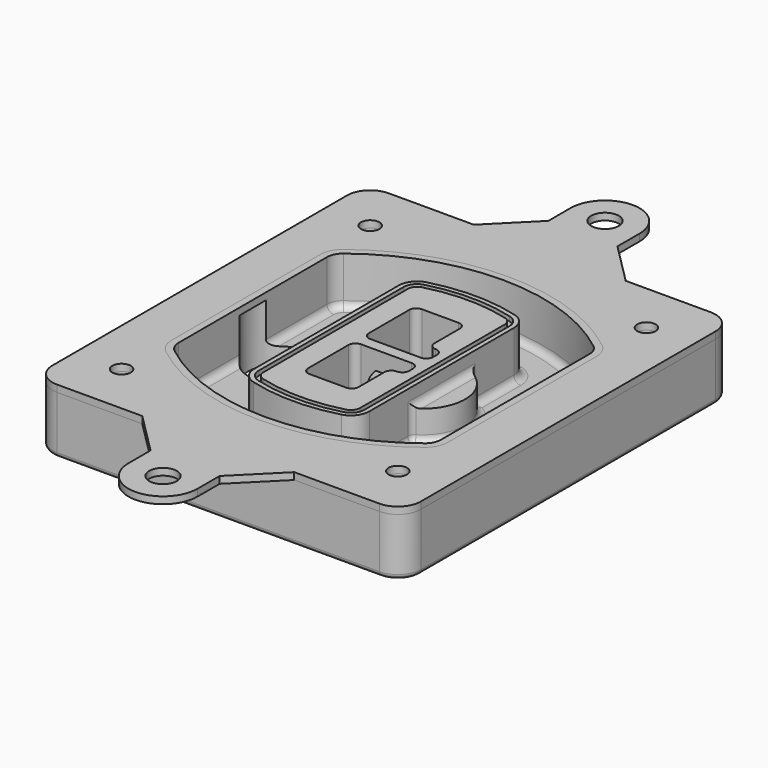
from build123d import *

# Parameters (mm, degrees)
F0_R      = 4
F1_DEPTH  = 25
F2_DEPTH  = 3
F3_DEPTH  = 18
F5_DEPTH  = 21
F6_DEPTH  = 2
F8_DEPTH  = 20
F9_DEPTH  = 16
F10_DEPTH = 25
F7_R      = 6
F7_R_2    = 4
F11_DEPTH = 6
F13_DEPTH = 9
F14_R     = 3
F15_R     = 2
F16_R     = 6
F16_R_2   = 4
F17_DEPTH = 3


with BuildPart() as f1:
    # F0 (on Top) → F1 (new body)
    with BuildSketch(Plane.XY):
        with BuildLine():
            ThreePointArc((-80, -80), (-77.0710678119, -87.0710678119), (-70, -90))
            Line((-70, -90), (70, -90))
            ThreePointArc((70, -90), (77.0710678119, -87.0710678119), (80, -80))
            Line((80, -80), (80, 80))
            ThreePointArc((80, 80), (77.0710678119, 87.0710678119), (70, 90))
            Line((70, 90), (-70, 90))
            ThreePointArc((-70, 90), (-77.0710678119, 87.0710678119), (-80, 80))
            Line((-80, 80), (-80, -80))
        make_face()
        with Locations((-60, -67.5)):
            Circle(F0_R, mode=Mode.SUBTRACT)
        with Locations((60, -67.5)):
            Circle(F0_R, mode=Mode.SUBTRACT)
        with Locations((-60, 67.5)):
            Circle(F0_R, mode=Mode.SUBTRACT)
        with BuildLine():
            ThreePointArc((-64, 40.2934422872), (-62.5820384798, 46.4328484224), (-58.6153846154, 51.3286200352))
            ThreePointArc((-58.6153846154, 51.3286200352), (0, 71.5), (58.6153846154, 51.3286200352))
            ThreePointArc((58.6153846154, 51.3286200352), (62.5820384798, 46.4328484224), (64, 40.2934422872))
            Line((64, 40.2934422872), (64, -40.2934422872))
            ThreePointArc((64, -40.2934422872), (62.5820384798, -46.4328484224), (58.6153846154, -51.3286200352))
            ThreePointArc((58.6153846154, -51.3286200352), (0, -71.5), (-58.6153846154, -51.3286200352))
            ThreePointArc((-58.6153846154, -51.3286200352), (-62.5820384798, -46.4328484224), (-64, -40.2934422872))
            Line((-64, -40.2934422872), (-64, 40.2934422872))
        make_face(mode=Mode.SUBTRACT)
        with Locations((60, 67.5)):
            Circle(F0_R, mode=Mode.SUBTRACT)
        with BuildLine():
            ThreePointArc((58.6153846154, 51.3286200352), (0, 71.5), (-58.6153846154, 51.3286200352))
            ThreePointArc((-58.6153846154, 51.3286200352), (-62.5820384798, 46.4328484224), (-64, 40.2934422872))
            Line((-64, 40.2934422872), (-64, -40.2934422872))
            ThreePointArc((-64, -40.2934422872), (-62.5820384798, -46.4328484224), (-58.6153846154, -51.3286200352))
            ThreePointArc((-58.6153846154, -51.3286200352), (0, -71.5), (58.6153846154, -51.3286200352))
            ThreePointArc((58.6153846154, -51.3286200352), (62.5820384798, -46.4328484224), (64, -40.2934422872))
            Line((64, -40.2934422872), (64, 40.2934422872))
            ThreePointArc((64, 40.2934422872), (62.5820384798, 46.4328484224), (58.6153846154, 51.3286200352))
        make_face()
        with BuildLine():
            Line((-60, -40.2934422872), (-60, 40.2934422872))
            ThreePointArc((-60, 40.2934422872), (-58.9871703427, 44.6787323838), (-56.1538461538, 48.1757121072))
            ThreePointArc((-56.1538461538, 48.1757121072), (0, 67.5), (56.1538461538, 48.1757121072))
            ThreePointArc((56.1538461538, 48.1757121072), (58.9871703427, 44.6787323838), (60, 40.2934422872))
            Line((60, 40.2934422872), (60, -40.2934422872))
            ThreePointArc((60, -40.2934422872), (58.9871703427, -44.6787323838), (56.1538461538, -48.1757121072))
            ThreePointArc((56.1538461538, -48.1757121072), (0, -67.5), (-56.1538461538, -48.1757121072))
            ThreePointArc((-56.1538461538, -48.1757121072), (-58.9871703427, -44.6787323838), (-60, -40.2934422872))
        make_face(mode=Mode.SUBTRACT)
        with BuildLine():
            ThreePointArc((-56.1538461538, 48.1757121072), (-58.9871703427, 44.6787323838), (-60, 40.2934422872))
            Line((-60, 40.2934422872), (-60, -40.2934422872))
            ThreePointArc((-60, -40.2934422872), (-58.9871703427, -44.6787323838), (-56.1538461538, -48.1757121072))
            ThreePointArc((-56.1538461538, -48.1757121072), (0, -67.5), (56.1538461538, -48.1757121072))
            ThreePointArc((56.1538461538, -48.1757121072), (58.9871703427, -44.6787323838), (60, -40.2934422872))
            Line((60, -40.2934422872), (60, 40.2934422872))
            ThreePointArc((60, 40.2934422872), (58.9871703427, 44.6787323838), (56.1538461538, 48.1757121072))
            ThreePointArc((56.1538461538, 48.1757121072), (0, 67.5), (-56.1538461538, 48.1757121072))
        make_face()
        with BuildLine():
            ThreePointArc((54.3076923077, 45.8110311612), (56.2910192399, 43.3631453548), (57, 40.2934422872))
            Line((57, 40.2934422872), (57, -40.2934422872))
            ThreePointArc((57, -40.2934422872), (56.2910192399, -43.3631453548), (54.3076923077, -45.8110311612))
            ThreePointArc((54.3076923077, -45.8110311612), (0, -64.5), (-54.3076923077, -45.8110311612))
            ThreePointArc((-54.3076923077, -45.8110311612), (-56.2910192399, -43.3631453548), (-57, -40.2934422872))
            Line((-57, -40.2934422872), (-57, 40.2934422872))
            ThreePointArc((-57, 40.2934422872), (-56.2910192399, 43.3631453548), (-54.3076923077, 45.8110311612))
            ThreePointArc((-54.3076923077, 45.8110311612), (0, 64.5), (54.3076923077, 45.8110311612))
        make_face(mode=Mode.SUBTRACT)
        with BuildLine():
            Line((57, -40.2934422872), (57, 40.2934422872))
            ThreePointArc((57, 40.2934422872), (56.2910192399, 43.3631453548), (54.3076923077, 45.8110311612))
            ThreePointArc((54.3076923077, 45.8110311612), (0, 64.5), (-54.3076923077, 45.8110311612))
            ThreePointArc((-54.3076923077, 45.8110311612), (-56.2910192399, 43.3631453548), (-57, 40.2934422872))
            Line((-57, 40.2934422872), (-57, -40.2934422872))
            ThreePointArc((-57, -40.2934422872), (-56.2910192399, -43.3631453548), (-54.3076923077, -45.8110311612))
            ThreePointArc((-54.3076923077, -45.8110311612), (0, -64.5), (54.3076923077, -45.8110311612))
            ThreePointArc((54.3076923077, -45.8110311612), (56.2910192399, -43.3631453548), (57, -40.2934422872))
        make_face()
    extrude(amount=-F1_DEPTH)

    # F0 (on Top) → F2 (join)
    with BuildSketch(Plane.XY):
        with BuildLine():
            ThreePointArc((-56.1538461538, 48.1757121072), (-58.9871703427, 44.6787323838), (-60, 40.2934422872))
            Line((-60, 40.2934422872), (-60, -40.2934422872))
            ThreePointArc((-60, -40.2934422872), (-58.9871703427, -44.6787323838), (-56.1538461538, -48.1757121072))
            ThreePointArc((-56.1538461538, -48.1757121072), (0, -67.5), (56.1538461538, -48.1757121072))
            ThreePointArc((56.1538461538, -48.1757121072), (58.9871703427, -44.6787323838), (60, -40.2934422872))
            Line((60, -40.2934422872), (60, 40.2934422872))
            ThreePointArc((60, 40.2934422872), (58.9871703427, 44.6787323838), (56.1538461538, 48.1757121072))
            ThreePointArc((56.1538461538, 48.1757121072), (0, 67.5), (-56.1538461538, 48.1757121072))
        make_face()
        with BuildLine():
            ThreePointArc((54.3076923077, 45.8110311612), (56.2910192399, 43.3631453548), (57, 40.2934422872))
            Line((57, 40.2934422872), (57, -40.2934422872))
            ThreePointArc((57, -40.2934422872), (56.2910192399, -43.3631453548), (54.3076923077, -45.8110311612))
            ThreePointArc((54.3076923077, -45.8110311612), (0, -64.5), (-54.3076923077, -45.8110311612))
            ThreePointArc((-54.3076923077, -45.8110311612), (-56.2910192399, -43.3631453548), (-57, -40.2934422872))
            Line((-57, -40.2934422872), (-57, 40.2934422872))
            ThreePointArc((-57, 40.2934422872), (-56.2910192399, 43.3631453548), (-54.3076923077, 45.8110311612))
            ThreePointArc((-54.3076923077, 45.8110311612), (0, 64.5), (54.3076923077, 45.8110311612))
        make_face(mode=Mode.SUBTRACT)
    extrude(amount=F2_DEPTH)

    # F0 (on Top) → F3 (cut)
    with BuildSketch(Plane.XY):
        with BuildLine():
            Line((57, -40.2934422872), (57, 40.2934422872))
            ThreePointArc((57, 40.2934422872), (56.2910192399, 43.3631453548), (54.3076923077, 45.8110311612))
            ThreePointArc((54.3076923077, 45.8110311612), (0, 64.5), (-54.3076923077, 45.8110311612))
            ThreePointArc((-54.3076923077, 45.8110311612), (-56.2910192399, 43.3631453548), (-57, 40.2934422872))
            Line((-57, 40.2934422872), (-57, -40.2934422872))
            ThreePointArc((-57, -40.2934422872), (-56.2910192399, -43.3631453548), (-54.3076923077, -45.8110311612))
            ThreePointArc((-54.3076923077, -45.8110311612), (0, -64.5), (54.3076923077, -45.8110311612))
            ThreePointArc((54.3076923077, -45.8110311612), (56.2910192399, -43.3631453548), (57, -40.2934422872))
        make_face()
    extrude(amount=-F3_DEPTH, mode=Mode.SUBTRACT)

    # F4 (on face) → F5 (join, through all)
    with BuildSketch(Plane.XY.offset(3)):
        with BuildLine():
            ThreePointArc((-25, -39.2465276821), (-23.3511545998, -44.1109737193), (-19.0842911877, -46.9702398883))
            ThreePointArc((-19.0842911877, -46.9702398883), (0, -49.5), (19.0842911877, -46.9702398883))
            ThreePointArc((19.0842911877, -46.9702398883), (23.3511545998, -44.1109737193), (25, -39.2465276821))
            Line((25, -39.2465276821), (25, 39.2465276821))
            ThreePointArc((25, 39.2465276821), (23.3511545998, 44.1109737193), (19.0842911877, 46.9702398883))
            ThreePointArc((19.0842911877, 46.9702398883), (0, 49.5), (-19.0842911877, 46.9702398883))
            ThreePointArc((-19.0842911877, 46.9702398883), (-23.3511545998, 44.1109737193), (-25, 39.2465276821))
            Line((-25, 39.2465276821), (-25, -39.2465276821))
        make_face()
        with BuildLine():
            ThreePointArc((18.5632183908, 45.0393118368), (21.7633659499, 42.89486221), (23, 39.2465276821))
            Line((23, 39.2465276821), (23, -39.2465276821))
            ThreePointArc((23, -39.2465276821), (21.7633659499, -42.89486221), (18.5632183908, -45.0393118368))
            ThreePointArc((18.5632183908, -45.0393118368), (0, -47.5), (-18.5632183908, -45.0393118368))
            ThreePointArc((-18.5632183908, -45.0393118368), (-21.7633659499, -42.89486221), (-23, -39.2465276821))
            Line((-23, -39.2465276821), (-23, 39.2465276821))
            ThreePointArc((-23, 39.2465276821), (-21.7633659499, 42.89486221), (-18.5632183908, 45.0393118368))
            ThreePointArc((-18.5632183908, 45.0393118368), (0, 47.5), (18.5632183908, 45.0393118368))
        make_face(mode=Mode.SUBTRACT)
        with BuildLine():
            Line((23, -39.2465276821), (23, 39.2465276821))
            ThreePointArc((23, 39.2465276821), (21.7633659499, 42.89486221), (18.5632183908, 45.0393118368))
            ThreePointArc((18.5632183908, 45.0393118368), (0, 47.5), (-18.5632183908, 45.0393118368))
            ThreePointArc((-18.5632183908, 45.0393118368), (-21.7633659499, 42.89486221), (-23, 39.2465276821))
            Line((-23, 39.2465276821), (-23, -39.2465276821))
            ThreePointArc((-23, -39.2465276821), (-21.7633659499, -42.89486221), (-18.5632183908, -45.0393118368))
            ThreePointArc((-18.5632183908, -45.0393118368), (0, -47.5), (18.5632183908, -45.0393118368))
            ThreePointArc((18.5632183908, -45.0393118368), (21.7633659499, -42.89486221), (23, -39.2465276821))
        make_face()
        with BuildLine():
            ThreePointArc((18.0421455939, 43.1083837852), (20.1755772999, 41.6787507007), (21, 39.2465276821))
            Line((21, 39.2465276821), (21, -39.2465276821))
            ThreePointArc((21, -39.2465276821), (20.1755772999, -41.6787507007), (18.0421455939, -43.1083837852))
            ThreePointArc((18.0421455939, -43.1083837852), (0, -45.5), (-18.0421455939, -43.1083837852))
            ThreePointArc((-18.0421455939, -43.1083837852), (-20.1755772999, -41.6787507007), (-21, -39.2465276821))
            Line((-21, -39.2465276821), (-21, 39.2465276821))
            ThreePointArc((-21, 39.2465276821), (-20.1755772999, 41.6787507007), (-18.0421455939, 43.1083837852))
            ThreePointArc((-18.0421455939, 43.1083837852), (0, 45.5), (18.0421455939, 43.1083837852))
        make_face(mode=Mode.SUBTRACT)
        with BuildLine():
            Line((21, -39.2465276821), (21, 39.2465276821))
            ThreePointArc((21, 39.2465276821), (20.1755772999, 41.6787507007), (18.0421455939, 43.1083837852))
            ThreePointArc((18.0421455939, 43.1083837852), (0, 45.5), (-18.0421455939, 43.1083837852))
            ThreePointArc((-18.0421455939, 43.1083837852), (-20.1755772999, 41.6787507007), (-21, 39.2465276821))
            Line((-21, 39.2465276821), (-21, -39.2465276821))
            ThreePointArc((-21, -39.2465276821), (-20.1755772999, -41.6787507007), (-18.0421455939, -43.1083837852))
            ThreePointArc((-18.0421455939, -43.1083837852), (0, -45.5), (18.0421455939, -43.1083837852))
            ThreePointArc((18.0421455939, -43.1083837852), (20.1755772999, -41.6787507007), (21, -39.2465276821))
        make_face()
        with BuildLine():
            Line((-8, -2.5), (14, -2.5))
            ThreePointArc((14, -2.5), (16.1213203436, -3.3786796564), (17, -5.5))
            Line((17, -5.5), (17, -7.5))
            ThreePointArc((17, -7.5), (16.1213203436, -9.6213203436), (14, -10.5))
            ThreePointArc((14, -10.5), (11.8786796564, -11.3786796564), (11, -13.5))
            Line((11, -13.5), (11, -27.5))
            ThreePointArc((11, -27.5), (10.1213203436, -29.6213203436), (8, -30.5))
            Line((8, -30.5), (-8, -30.5))
            ThreePointArc((-8, -30.5), (-10.1213203436, -29.6213203436), (-11, -27.5))
            Line((-11, -27.5), (-11, -5.5))
            ThreePointArc((-11, -5.5), (-10.1213203436, -3.3786796564), (-8, -2.5))
        make_face(mode=Mode.SUBTRACT)
        with BuildLine():
            ThreePointArc((-8, 2.5), (-10.1213203436, 3.3786796564), (-11, 5.5))
            Line((-11, 5.5), (-11, 27.5))
            ThreePointArc((-11, 27.5), (-10.1213203436, 29.6213203436), (-8, 30.5))
            Line((-8, 30.5), (8, 30.5))
            ThreePointArc((8, 30.5), (10.1213203436, 29.6213203436), (11, 27.5))
            Line((11, 27.5), (11, 13.5))
            ThreePointArc((11, 13.5), (11.8786796564, 11.3786796564), (14, 10.5))
            ThreePointArc((14, 10.5), (16.1213203436, 9.6213203436), (17, 7.5))
            Line((17, 7.5), (17, 5.5))
            ThreePointArc((17, 5.5), (16.1213203436, 3.3786796564), (14, 2.5))
            Line((14, 2.5), (-8, 2.5))
        make_face(mode=Mode.SUBTRACT)
    extrude(amount=-F5_DEPTH)

    # F4 (on face) → F6 (cut)
    with BuildSketch(Plane.XY.offset(3)):
        with BuildLine():
            Line((23, -39.2465276821), (23, 39.2465276821))
            ThreePointArc((23, 39.2465276821), (21.7633659499, 42.89486221), (18.5632183908, 45.0393118368))
            ThreePointArc((18.5632183908, 45.0393118368), (0, 47.5), (-18.5632183908, 45.0393118368))
            ThreePointArc((-18.5632183908, 45.0393118368), (-21.7633659499, 42.89486221), (-23, 39.2465276821))
            Line((-23, 39.2465276821), (-23, -39.2465276821))
            ThreePointArc((-23, -39.2465276821), (-21.7633659499, -42.89486221), (-18.5632183908, -45.0393118368))
            ThreePointArc((-18.5632183908, -45.0393118368), (0, -47.5), (18.5632183908, -45.0393118368))
            ThreePointArc((18.5632183908, -45.0393118368), (21.7633659499, -42.89486221), (23, -39.2465276821))
        make_face()
        with BuildLine():
            ThreePointArc((18.0421455939, 43.1083837852), (20.1755772999, 41.6787507007), (21, 39.2465276821))
            Line((21, 39.2465276821), (21, -39.2465276821))
            ThreePointArc((21, -39.2465276821), (20.1755772999, -41.6787507007), (18.0421455939, -43.1083837852))
            ThreePointArc((18.0421455939, -43.1083837852), (0, -45.5), (-18.0421455939, -43.1083837852))
            ThreePointArc((-18.0421455939, -43.1083837852), (-20.1755772999, -41.6787507007), (-21, -39.2465276821))
            Line((-21, -39.2465276821), (-21, 39.2465276821))
            ThreePointArc((-21, 39.2465276821), (-20.1755772999, 41.6787507007), (-18.0421455939, 43.1083837852))
            ThreePointArc((-18.0421455939, 43.1083837852), (0, 45.5), (18.0421455939, 43.1083837852))
        make_face(mode=Mode.SUBTRACT)
    extrude(amount=-F6_DEPTH, mode=Mode.SUBTRACT)

    # F7 (on face) → F8 (join)
    with BuildSketch(Plane(origin=(0, 0, -25), x_dir=(1, 0, 0), z_dir=(0, 0, -1))):
        with BuildLine():
            ThreePointArc((3.28842436, 0), (16.7567035675, 13.4682792075), (30.224982775, 0))
            Line((30.224982775, 0), (35.224982775, 0))
            ThreePointArc((35.224982775, 0), (16.7567035675, 18.4682792075), (-1.71157564, 0))
            Line((-1.71157564, 0), (3.28842436, 0))
        make_face()
        with BuildLine():
            Line((3.28842436, 0), (30.224982775, 0))
            ThreePointArc((30.224982775, 0), (16.7567035675, 13.4682792075), (3.28842436, 0))
        make_face()
        with BuildLine():
            ThreePointArc((3.28842436, 0), (16.7567035675, -13.4682792075), (30.224982775, 0))
            Line((30.224982775, 0), (3.28842436, 0))
        make_face()
        with BuildLine():
            Line((35.224982775, 0), (30.224982775, 0))
            ThreePointArc((30.224982775, 0), (16.7567035675, -13.4682792075), (3.28842436, 0))
            Line((3.28842436, 0), (-1.71157564, 0))
            ThreePointArc((-1.71157564, 0), (16.7567035675, -18.4682792075), (35.224982775, 0))
        make_face()
    extrude(amount=-F8_DEPTH)

    # F7 (on face) → F9 (cut)
    with BuildSketch(Plane(origin=(0, 0, -25), x_dir=(1, 0, 0), z_dir=(0, 0, -1))):
        with BuildLine():
            Line((3.28842436, 0), (30.224982775, 0))
            ThreePointArc((30.224982775, 0), (16.7567035675, 13.4682792075), (3.28842436, 0))
        make_face()
        with BuildLine():
            ThreePointArc((3.28842436, 0), (16.7567035675, -13.4682792075), (30.224982775, 0))
            Line((30.224982775, 0), (3.28842436, 0))
        make_face()
    extrude(amount=-F9_DEPTH, mode=Mode.SUBTRACT)

    # F7 (on face) → F10 (cut)
    with BuildSketch(Plane(origin=(0, 0, -25), x_dir=(1, 0, 0), z_dir=(0, 0, -1))):
        with BuildLine():
            Line((-59.0318229325, 0), (-32.0952645175, 0))
            ThreePointArc((-32.0952645175, 0), (-45.563543725, 13.4682792075), (-59.0318229325, 0))
        make_face()
        with BuildLine():
            ThreePointArc((-59.0318229325, 0), (-45.563543725, -13.4682792075), (-32.0952645175, 0))
            Line((-32.0952645175, 0), (-59.0318229325, 0))
        make_face()
    extrude(amount=-F10_DEPTH, mode=Mode.SUBTRACT)

    # F7 (on face) → F11 (cut)
    with BuildSketch(Plane(origin=(0, 0, -25), x_dir=(1, 0, 0), z_dir=(0, 0, -1))):
        with Locations((60, -67.5)):
            Circle(F7_R)
        with Locations((60, -67.5)):
            Circle(F7_R_2, mode=Mode.SUBTRACT)
        with Locations((60, -67.5)):
            Circle(F7_R)
        with Locations((60, -67.5)):
            Circle(F7_R_2, mode=Mode.SUBTRACT)
        with Locations((-60, -67.5)):
            Circle(F7_R)
        with Locations((-60, -67.5)):
            Circle(F7_R_2, mode=Mode.SUBTRACT)
        with Locations((-60, -67.5)):
            Circle(F7_R)
        with Locations((-60, -67.5)):
            Circle(F7_R_2, mode=Mode.SUBTRACT)
        with Locations((-60, 67.5)):
            Circle(F7_R)
        with Locations((-60, 67.5)):
            Circle(F7_R_2, mode=Mode.SUBTRACT)
        with Locations((-60, 67.5)):
            Circle(F7_R)
        with Locations((-60, 67.5)):
            Circle(F7_R_2, mode=Mode.SUBTRACT)
        with Locations((60, 67.5)):
            Circle(F7_R)
        with Locations((60, 67.5)):
            Circle(F7_R_2, mode=Mode.SUBTRACT)
        with Locations((60, 67.5)):
            Circle(F7_R)
        with Locations((60, 67.5)):
            Circle(F7_R_2, mode=Mode.SUBTRACT)
    extrude(amount=-F11_DEPTH, mode=Mode.SUBTRACT)

    # F12 (on face) → F13 (cut, through all)
    with BuildSketch(Plane(origin=(0, 0, -9), x_dir=(1, 0, 0), z_dir=(0, 0, -1))):
        with BuildLine():
            Line((11, 13.5), (11, 17.5481537753))
            ThreePointArc((11, 17.5481537753), (2.5696536419, 11.8239143813), (-1.5415842455, 2.5))
            Line((-1.5415842455, 2.5), (3.5224848595, 2.5))
            ThreePointArc((3.5224848595, 2.5), (6.1857188154, 8.3455872281), (11.2536447004, 12.2927168648))
            ThreePointArc((11.2536447004, 12.2927168648), (11.0640958889, 12.8831798879), (11, 13.5))
        make_face()
        with BuildLine():
            ThreePointArc((11.2536447004, -12.2927168648), (6.1857188154, -8.3455872281), (3.5224848595, -2.5))
            Line((3.5224848595, -2.5), (-1.5415842455, -2.5))
            ThreePointArc((-1.5415842455, -2.5), (2.5696536419, -11.8239143813), (11, -17.5481537753))
            Line((11, -17.5481537753), (11, -13.5))
            ThreePointArc((11, -13.5), (11.0640958889, -12.8831798879), (11.2536447004, -12.2927168648))
        make_face()
        with BuildLine():
            ThreePointArc((11.2536447004, 12.2927168648), (6.1857188154, 8.3455872281), (3.5224848595, 2.5))
            Line((3.5224848595, 2.5), (14, 2.5))
            ThreePointArc((14, 2.5), (16.1213203436, 3.3786796564), (17, 5.5))
            Line((17, 5.5), (17, 7.5))
            ThreePointArc((17, 7.5), (16.1213203436, 9.6213203436), (14, 10.5))
            ThreePointArc((14, 10.5), (12.3601599782, 10.9878446101), (11.2536447004, 12.2927168648))
        make_face()
        with BuildLine():
            Line((14, -2.5), (3.5224848595, -2.5))
            ThreePointArc((3.5224848595, -2.5), (6.1857188154, -8.3455872281), (11.2536447004, -12.2927168648))
            ThreePointArc((11.2536447004, -12.2927168648), (12.3601599782, -10.9878446101), (14, -10.5))
            ThreePointArc((14, -10.5), (16.1213203436, -9.6213203436), (17, -7.5))
            Line((17, -7.5), (17, -5.5))
            ThreePointArc((17, -5.5), (16.1213203436, -3.3786796564), (14, -2.5))
        make_face()
    extrude(amount=F13_DEPTH, mode=Mode.SUBTRACT)

    # F14
    f14_edges = [f1.edges().sort_by_distance(p)[0] for p in [
        (-57, -23.703476, -18),
        (-57, 23.703476, -18),
        (25, 0, -5),
        (25, 16.526506, -11.5),
        (25, -16.526506, -11.5),
        (25, -27.886517, -18),
        (35.224983, 0, -18),
    ]]
    fillet(f14_edges, radius=F14_R)

    # F15
    f15_edges = [f1.edges().sort_by_distance(p)[0] for p in [
        (0, -90, -25),
    ]]
    fillet(f15_edges, radius=F15_R)


with BuildPart() as f17:
    # F16 (on face) → F17 (new body, through all)
    with BuildSketch(Plane.XY):
        with BuildLine():
            Line((15, -108), (33, -90))
            Line((33, -90), (-33, -90))
            Line((-33, -90), (-15, -108))
            Line((-15, -108), (-15, -120))
            ThreePointArc((-15, -120), (0, -135), (15, -120))
            Line((15, -120), (15, -108))
        make_face()
        with Locations((0, -120)):
            Circle(F16_R, mode=Mode.SUBTRACT)
        with BuildLine():
            Line((-33, 90), (33, 90))
            Line((33, 90), (15, 108))
            Line((15, 108), (15, 120))
            ThreePointArc((15, 120), (0, 135), (-15, 120))
            Line((-15, 120), (-15, 108))
            Line((-15, 108), (-33, 90))
        make_face()
        with Locations((0, 120)):
            Circle(F16_R, mode=Mode.SUBTRACT)
        with BuildLine():
            ThreePointArc((70, -90), (77.0710678119, -87.0710678119), (80, -80))
            Line((80, -80), (80, 80))
            ThreePointArc((80, 80), (77.0710678119, 87.0710678119), (70, 90))
            Line((70, 90), (33, 90))
            Line((33, 90), (-33, 90))
            Line((-33, 90), (-70, 90))
            ThreePointArc((-70, 90), (-77.0710678119, 87.0710678119), (-80, 80))
            Line((-80, 80), (-80, -80))
            ThreePointArc((-80, -80), (-77.0710678119, -87.0710678119), (-70, -90))
            Line((-70, -90), (-33, -90))
            Line((-33, -90), (33, -90))
            Line((33, -90), (70, -90))
        make_face()
        with Locations((-60, -67.5)):
            Circle(F16_R_2, mode=Mode.SUBTRACT)
        with Locations((60, -67.5)):
            Circle(F16_R_2, mode=Mode.SUBTRACT)
        with Locations((-60, 67.5)):
            Circle(F16_R_2, mode=Mode.SUBTRACT)
        with BuildLine():
            ThreePointArc((56.1538461538, -48.1757121072), (0, -67.5), (-56.1538461538, -48.1757121072))
            ThreePointArc((-56.1538461538, -48.1757121072), (-58.9871703427, -44.6787323838), (-60, -40.2934422872))
            Line((-60, -40.2934422872), (-60, 40.2934422872))
            ThreePointArc((-60, 40.2934422872), (-58.9871703427, 44.6787323838), (-56.1538461538, 48.1757121072))
            ThreePointArc((-56.1538461538, 48.1757121072), (0, 67.5), (56.1538461538, 48.1757121072))
            ThreePointArc((56.1538461538, 48.1757121072), (58.9871703427, 44.6787323838), (60, 40.2934422872))
            Line((60, 40.2934422872), (60, -40.2934422872))
            ThreePointArc((60, -40.2934422872), (58.9871703427, -44.6787323838), (56.1538461538, -48.1757121072))
        make_face(mode=Mode.SUBTRACT)
        with Locations((60, 67.5)):
            Circle(F16_R_2, mode=Mode.SUBTRACT)
    extrude(amount=F17_DEPTH)


solid = Compound([f1.part, f17.part])
